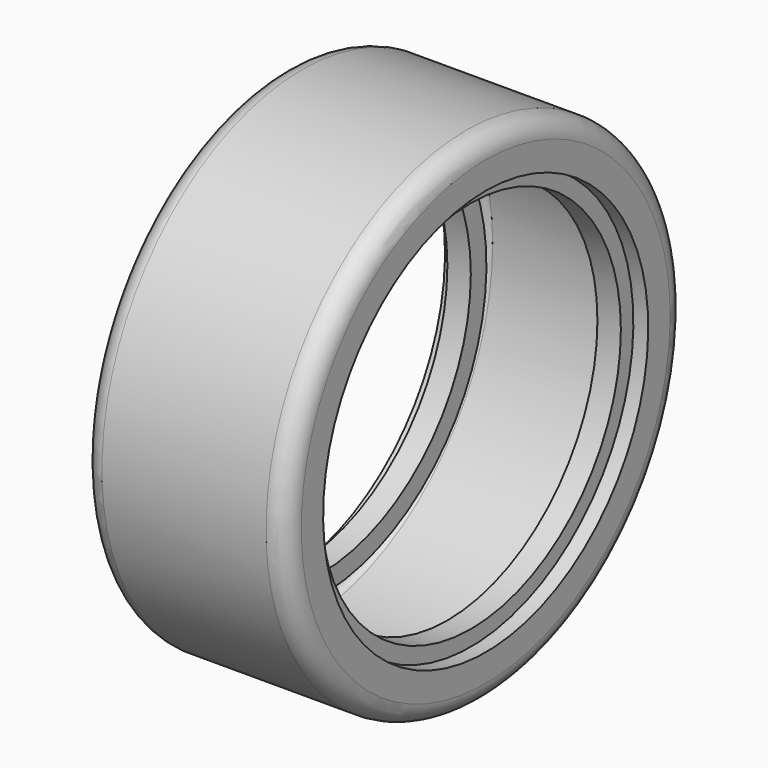
from build123d import *


with BuildPart() as f1:
    # F0 (on Front) → F1 (revolve)
    with BuildSketch(Plane.XZ):
        with BuildLine():
            Line((10.5, 32), (-10.5, 32))
            ThreePointArc((-10.5, 32), (-12.267767, 31.267767), (-13, 29.5))
            Line((-13, 29.5), (-13, 26))
            Line((-13, 26), (-11.1, 26))
            Line((-11.1, 26), (-11.1, 24))
            Line((-11.1, 24), (-8.1, 24))
            Line((-8.1, 24), (-8.1, 26.5))
            Line((-8.1, 26.5), (-11.5, 26.5))
            Line((-11.5, 26.5), (-11.5, 29.5))
            ThreePointArc((-11.5, 29.5), (-11.207107, 30.207107), (-10.5, 30.5))
            Line((-10.5, 30.5), (10.5, 30.5))
            ThreePointArc((10.5, 30.5), (11.207107, 30.207107), (11.5, 29.5))
            Line((11.5, 29.5), (11.5, 26.5))
            Line((11.5, 26.5), (8.1, 26.5))
            Line((8.1, 26.5), (8.1, 24))
            Line((8.1, 24), (11.1, 24))
            Line((11.1, 24), (11.1, 26))
            Line((11.1, 26), (13, 26))
            Line((13, 26), (13, 29.5))
            ThreePointArc((13, 29.5), (12.267767, 31.267767), (10.5, 32))
        make_face()
    revolve(axis=Axis((20.440892, 0, 0), (1, 0, 0)))


solid = f1.part
